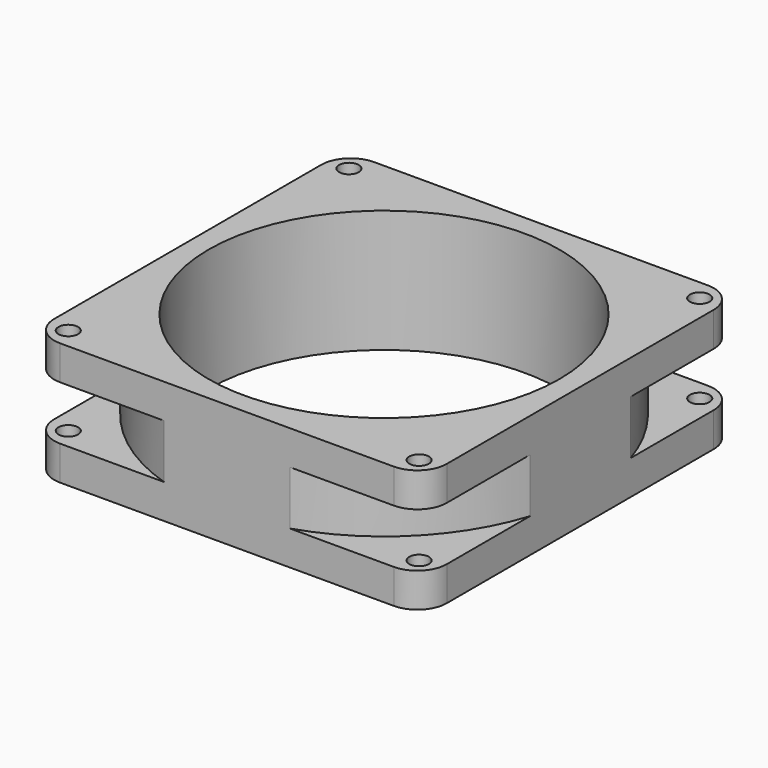
from build123d import *

# Parameters (mm, degrees)
F0_W     = 80
F0_H     = 80
F0_R     = 2
F0_R_2   = 35.75
F1_DEPTH = 25
F2_R     = 6
F5_DEPTH = 11


with BuildPart() as f1:
    # F0 (on Top) → F1 (new body)
    with BuildSketch(Plane.XY):
        Rectangle(F0_W, F0_H)
        with Locations((-35.75, -35.75)):
            Circle(F0_R, mode=Mode.SUBTRACT)
        with Locations((35.75, -35.75)):
            Circle(F0_R, mode=Mode.SUBTRACT)
        with Locations((-35.75, 35.75)):
            Circle(F0_R, mode=Mode.SUBTRACT)
        Circle(F0_R_2, mode=Mode.SUBTRACT)
        with Locations((35.75, 35.75)):
            Circle(F0_R, mode=Mode.SUBTRACT)
    extrude(amount=F1_DEPTH)

    # F2
    f2_edges = [f1.edges().sort_by_distance(p)[0] for p in [
        (-40, -40, 12.5),
        (40, -40, 12.5),
        (40, 40, 12.5),
        (-40, 40, 12.5),
    ]]
    fillet(f2_edges, radius=F2_R)

    # F4 (on offset) → F5 (cut)
    with BuildSketch(Plane.XY.offset(7)):
        with BuildLine():
            ThreePointArc((0, 42), (29.6984848098, 29.6984848098), (42, 0))
            Line((42, 0), (42, 42))
            Line((42, 42), (0, 42))
        make_face()
        with BuildLine():
            ThreePointArc((-42, 5.59e-08), (-29.6984847901, 29.6984848296), (0, 42))
            Line((0, 42), (-42, 42))
            Line((-42, 42), (-42, 5.59e-08))
        make_face()
        with BuildLine():
            Line((-42, -42), (1.331e-07, -42))
            ThreePointArc((1.331e-07, -42), (-29.6984847825, -29.6984848372), (-42, 5.59e-08))
            Line((-42, 5.59e-08), (-42, -42))
        make_face()
        with BuildLine():
            Line((42, -42), (42, 0))
            ThreePointArc((42, 0), (29.6984848569, -29.6984847628), (1.331e-07, -42))
            Line((1.331e-07, -42), (42, -42))
        make_face()
    extrude(amount=F5_DEPTH, mode=Mode.SUBTRACT)


solid = f1.part
